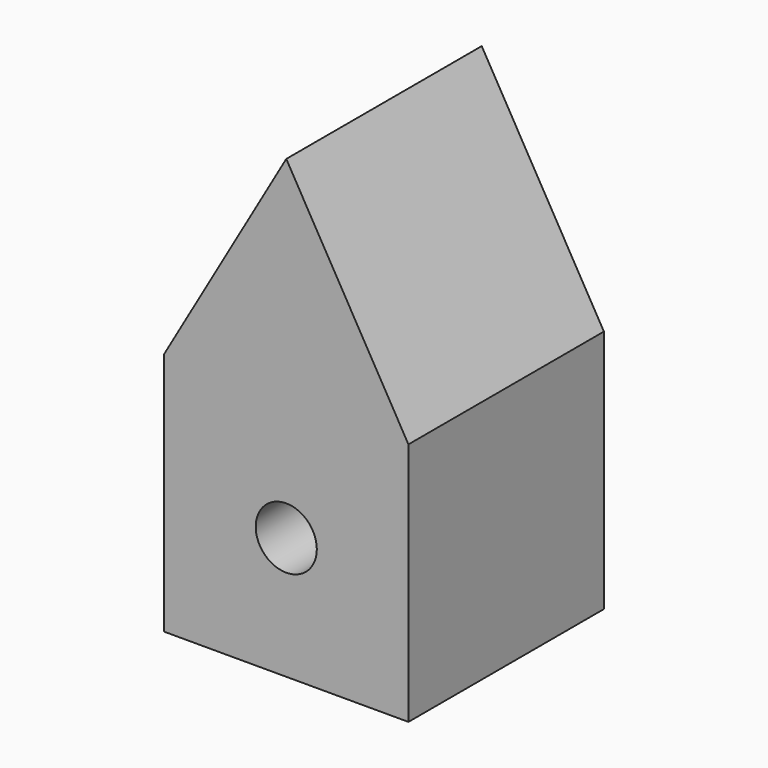
from build123d import *

# Parameters (mm, degrees)
F0_R     = 6.35
F1_DEPTH = 50.8


with BuildPart() as f1:
    # F0 (on Front) → F1 (new body)
    with BuildSketch(Plane.XZ):
        Polygon((-25.4, -25.4), (25.4, -25.4), (25.4, 25.4), (0, 69.394091), (-25.4, 25.4), align=None)
        Circle(F0_R, mode=Mode.SUBTRACT)
    extrude(amount=-F1_DEPTH)


solid = f1.part
